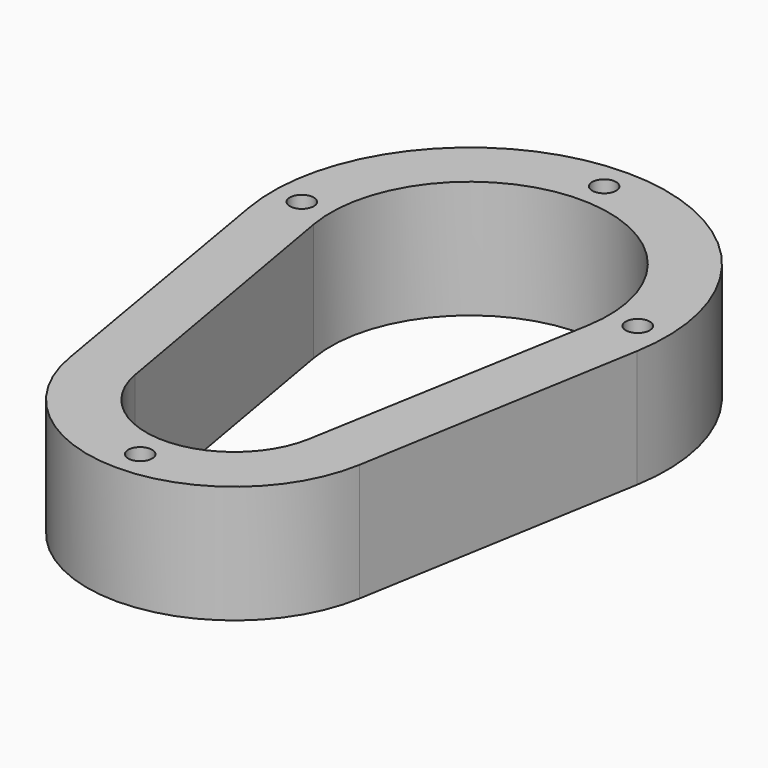
from build123d import *

# Parameters (mm, degrees)
F0_R     = 2.5781
F0_R_2   = 2.57175
F1_DEPTH = 25.4


with BuildPart() as f1:
    # F0 (on Top) → F1 (new body)
    with BuildSketch(Plane.XY):
        with BuildLine():
            ThreePointArc((-31.291722, -68.875), (0, -95.25), (31.291722, -68.875))
            Line((31.291722, -68.875), (41.886557, -7.194882))
            ThreePointArc((41.886557, -7.194882), (0, 42.5), (-41.886557, -7.194882))
            Line((-41.886557, -7.194882), (-31.291722, -68.875))
        make_face()
        with Locations((0, -88.9)):
            Circle(F0_R, mode=Mode.SUBTRACT)
        with Locations((-36.2458, 0)):
            Circle(F0_R, mode=Mode.SUBTRACT)
        with BuildLine():
            ThreePointArc((-29.550596, -5.173228), (0, 30), (29.550596, -5.173228))
            Line((29.550596, -5.173228), (18.764628, -66.785))
            ThreePointArc((18.764628, -66.785), (0, -82.55), (-18.764628, -66.785))
            Line((-18.764628, -66.785), (-29.550596, -5.173228))
        make_face(mode=Mode.SUBTRACT)
        with Locations((36.2458, 0)):
            Circle(F0_R, mode=Mode.SUBTRACT)
        with Locations((0, 36.2458)):
            Circle(F0_R_2, mode=Mode.SUBTRACT)
    extrude(amount=F1_DEPTH)


solid = f1.part
